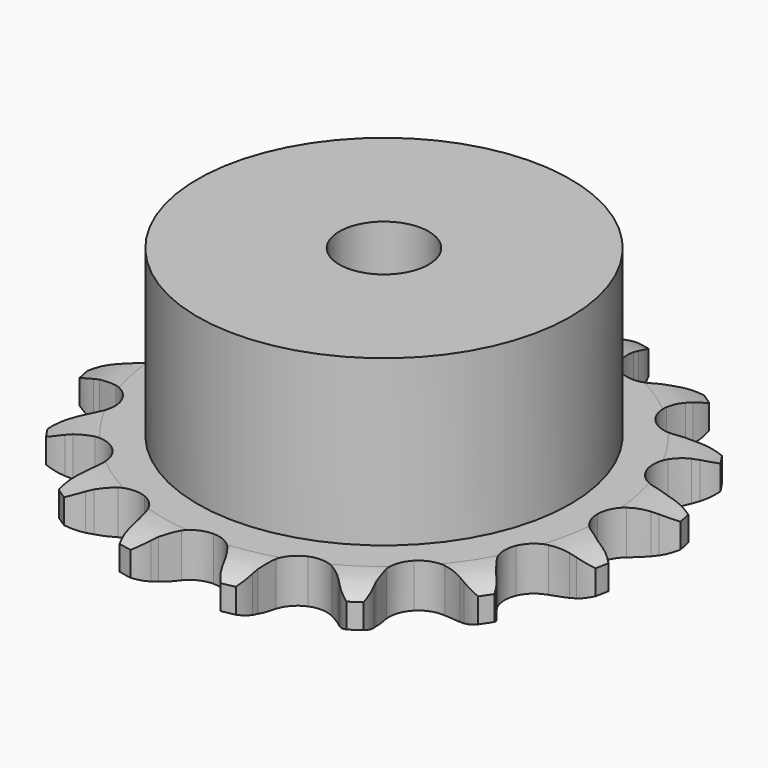
from build123d import *

# Parameters (mm, degrees)
PAD_DEPTH         = 5.9
SKETCH001_R       = 25
PAD001_DEPTH      = 28
SKETCH002_R       = 6
POCKET_DEPTH      = 0.001
POCKET_DEPTH_BACK = -28.001


with BuildPart() as part:
    # Sprocket → Pad (new body)
    with BuildSketch(Plane.XY):
        with BuildLine():
            ThreePointArc((-7.127283, 35.831271), (-5.749946, 34.624109), (-4.76799, 33.078129))
            Line((-4.76799, 33.078129), (-4.403122, 32.268153))
            ThreePointArc((-4.403122, 32.268153), (-3.804071, 31.135548), (-3.066876, 30.087598))
            ThreePointArc((-3.066876, 30.087598), (-1.700714, 29.003334), (0, 28.616551))
            ThreePointArc((0, 28.616551), (1.700714, 29.003334), (3.066876, 30.087598))
            ThreePointArc((3.066876, 30.087598), (3.804071, 31.135548), (4.403122, 32.268153))
            Line((4.403122, 32.268153), (4.76799, 33.078129))
            ThreePointArc((4.76799, 33.078129), (5.749946, 34.624109), (7.127283, 35.831271))
            ThreePointArc((7.127283, 35.831271), (7.937815, 34.188915), (8.253404, 32.384837))
            Line((8.253404, 32.384837), (8.280533, 31.496888))
            ThreePointArc((8.280533, 31.496888), (8.400555, 30.221251), (8.680601, 28.970958))
            ThreePointArc((8.680601, 28.970958), (9.527841, 27.446422), (10.95108, 26.438246))
            ThreePointArc((10.95108, 26.438246), (12.67035, 26.144752), (14.347449, 26.623673))
            Line((14.347449, 26.623673), (16.416442, 28.126884))
            ThreePointArc((16.416442, 28.126884), (16.733297, 28.438325), (17.0635, 28.735575))
            ThreePointArc((17.0635, 28.735575), (18.562331, 29.788097), (20.296785, 30.376285))
            ThreePointArc((20.296785, 30.376285), (20.417116, 28.548769), (20.018291, 26.761247))
            Line((20.018291, 26.761247), (19.703552, 25.930508))
            ThreePointArc((19.703552, 25.930508), (19.326273, 24.706042), (19.106535, 23.443753))
            ThreePointArc((19.106535, 23.443753), (19.305868, 21.71104), (20.234957, 20.234957))
            ThreePointArc((20.234957, 20.234957), (21.71104, 19.305868), (23.443753, 19.106535))
            Line((23.443753, 19.106535), (25.930508, 19.703552))
            ThreePointArc((25.930508, 19.703552), (26.342426, 19.870031), (26.761247, 20.018291))
            ThreePointArc((26.761247, 20.018291), (28.548769, 20.417116), (30.376285, 20.296785))
            ThreePointArc((30.376285, 20.296785), (29.788097, 18.562331), (28.735575, 17.0635))
            Line((28.735575, 17.0635), (28.126884, 16.416442))
            ThreePointArc((28.126884, 16.416442), (27.309741, 15.429562), (26.623673, 14.347449))
            ThreePointArc((26.623673, 14.347449), (26.144752, 12.67035), (26.438246, 10.95108))
            ThreePointArc((26.438246, 10.95108), (27.446422, 9.527841), (28.970958, 8.680601))
            Line((28.970958, 8.680601), (31.496888, 8.280533))
            ThreePointArc((31.496888, 8.280533), (31.94116, 8.276704), (32.384837, 8.253404))
            ThreePointArc((32.384837, 8.253404), (34.188915, 7.937815), (35.831271, 7.127283))
            ThreePointArc((35.831271, 7.127283), (34.624109, 5.749946), (33.078129, 4.76799))
            Line((33.078129, 4.76799), (32.268153, 4.403122))
            ThreePointArc((32.268153, 4.403122), (31.135548, 3.804071), (30.087598, 3.066876))
            ThreePointArc((30.087598, 3.066876), (29.003334, 1.700714), (28.616551, 0))
            ThreePointArc((28.616551, 0), (29.003334, -1.700714), (30.087598, -3.066876))
            Line((30.087598, -3.066876), (32.268153, -4.403122))
            ThreePointArc((32.268153, -4.403122), (32.677142, -4.576675), (33.078129, -4.76799))
            ThreePointArc((33.078129, -4.76799), (34.624109, -5.749946), (35.831271, -7.127283))
            ThreePointArc((35.831271, -7.127283), (34.188915, -7.937815), (32.384837, -8.253404))
            Line((32.384837, -8.253404), (31.496888, -8.280533))
            ThreePointArc((31.496888, -8.280533), (30.221251, -8.400555), (28.970958, -8.680601))
            ThreePointArc((28.970958, -8.680601), (27.446422, -9.527841), (26.438246, -10.95108))
            ThreePointArc((26.438246, -10.95108), (26.144752, -12.67035), (26.623673, -14.347449))
            Line((26.623673, -14.347449), (28.126884, -16.416442))
            ThreePointArc((28.126884, -16.416442), (28.438325, -16.733297), (28.735575, -17.0635))
            ThreePointArc((28.735575, -17.0635), (29.788097, -18.562331), (30.376285, -20.296785))
            ThreePointArc((30.376285, -20.296785), (28.548769, -20.417116), (26.761247, -20.018291))
            Line((26.761247, -20.018291), (25.930508, -19.703552))
            ThreePointArc((25.930508, -19.703552), (24.706042, -19.326273), (23.443753, -19.106535))
            ThreePointArc((23.443753, -19.106535), (21.71104, -19.305868), (20.234957, -20.234957))
            ThreePointArc((20.234957, -20.234957), (19.305868, -21.71104), (19.106535, -23.443753))
            Line((19.106535, -23.443753), (19.703552, -25.930508))
            ThreePointArc((19.703552, -25.930508), (19.870031, -26.342426), (20.018291, -26.761247))
            ThreePointArc((20.018291, -26.761247), (20.417116, -28.548769), (20.296785, -30.376285))
            ThreePointArc((20.296785, -30.376285), (18.562331, -29.788097), (17.0635, -28.735575))
            Line((17.0635, -28.735575), (16.416442, -28.126884))
            ThreePointArc((16.416442, -28.126884), (15.429562, -27.309741), (14.347449, -26.623673))
            ThreePointArc((14.347449, -26.623673), (12.67035, -26.144752), (10.95108, -26.438246))
            ThreePointArc((10.95108, -26.438246), (9.527841, -27.446422), (8.680601, -28.970958))
            Line((8.680601, -28.970958), (8.280533, -31.496888))
            ThreePointArc((8.280533, -31.496888), (8.276704, -31.94116), (8.253404, -32.384837))
            ThreePointArc((8.253404, -32.384837), (7.937815, -34.188915), (7.127283, -35.831271))
            ThreePointArc((7.127283, -35.831271), (5.749946, -34.624109), (4.76799, -33.078129))
            Line((4.76799, -33.078129), (4.403122, -32.268153))
            ThreePointArc((4.403122, -32.268153), (3.804071, -31.135548), (3.066876, -30.087598))
            ThreePointArc((3.066876, -30.087598), (1.700714, -29.003334), (0, -28.616551))
            ThreePointArc((0, -28.616551), (-1.700714, -29.003334), (-3.066876, -30.087598))
            Line((-3.066876, -30.087598), (-4.403122, -32.268153))
            ThreePointArc((-4.403122, -32.268153), (-4.576675, -32.677142), (-4.76799, -33.078129))
            ThreePointArc((-4.76799, -33.078129), (-5.749946, -34.624109), (-7.127283, -35.831271))
            ThreePointArc((-7.127283, -35.831271), (-7.937815, -34.188915), (-8.253404, -32.384837))
            Line((-8.253404, -32.384837), (-8.280533, -31.496888))
            ThreePointArc((-8.280533, -31.496888), (-8.400555, -30.221251), (-8.680601, -28.970958))
            ThreePointArc((-8.680601, -28.970958), (-9.527841, -27.446422), (-10.95108, -26.438246))
            ThreePointArc((-10.95108, -26.438246), (-12.67035, -26.144752), (-14.347449, -26.623673))
            Line((-14.347449, -26.623673), (-16.416442, -28.126884))
            ThreePointArc((-16.416442, -28.126884), (-16.733297, -28.438325), (-17.0635, -28.735575))
            ThreePointArc((-17.0635, -28.735575), (-18.562331, -29.788097), (-20.296785, -30.376285))
            ThreePointArc((-20.296785, -30.376285), (-20.417116, -28.548769), (-20.018291, -26.761247))
            Line((-20.018291, -26.761247), (-19.703552, -25.930508))
            ThreePointArc((-19.703552, -25.930508), (-19.326273, -24.706042), (-19.106535, -23.443753))
            ThreePointArc((-19.106535, -23.443753), (-19.305868, -21.71104), (-20.234957, -20.234957))
            ThreePointArc((-20.234957, -20.234957), (-21.71104, -19.305868), (-23.443753, -19.106535))
            Line((-23.443753, -19.106535), (-25.930508, -19.703552))
            ThreePointArc((-25.930508, -19.703552), (-26.342426, -19.870031), (-26.761247, -20.018291))
            ThreePointArc((-26.761247, -20.018291), (-28.548769, -20.417116), (-30.376285, -20.296785))
            ThreePointArc((-30.376285, -20.296785), (-29.788097, -18.562331), (-28.735575, -17.0635))
            Line((-28.735575, -17.0635), (-28.126884, -16.416442))
            ThreePointArc((-28.126884, -16.416442), (-27.309741, -15.429562), (-26.623673, -14.347449))
            ThreePointArc((-26.623673, -14.347449), (-26.144752, -12.67035), (-26.438246, -10.95108))
            ThreePointArc((-26.438246, -10.95108), (-27.446422, -9.527841), (-28.970958, -8.680601))
            Line((-28.970958, -8.680601), (-31.496888, -8.280533))
            ThreePointArc((-31.496888, -8.280533), (-31.94116, -8.276704), (-32.384837, -8.253404))
            ThreePointArc((-32.384837, -8.253404), (-34.188915, -7.937815), (-35.831271, -7.127283))
            ThreePointArc((-35.831271, -7.127283), (-34.624109, -5.749946), (-33.078129, -4.76799))
            Line((-33.078129, -4.76799), (-32.268153, -4.403122))
            ThreePointArc((-32.268153, -4.403122), (-31.135548, -3.804071), (-30.087598, -3.066876))
            ThreePointArc((-30.087598, -3.066876), (-29.003334, -1.700714), (-28.616551, 0))
            ThreePointArc((-28.616551, 0), (-29.003334, 1.700714), (-30.087598, 3.066876))
            Line((-30.087598, 3.066876), (-32.268153, 4.403122))
            ThreePointArc((-32.268153, 4.403122), (-32.677142, 4.576675), (-33.078129, 4.76799))
            ThreePointArc((-33.078129, 4.76799), (-34.624109, 5.749946), (-35.831271, 7.127283))
            ThreePointArc((-35.831271, 7.127283), (-34.188915, 7.937815), (-32.384837, 8.253404))
            Line((-32.384837, 8.253404), (-31.496888, 8.280533))
            ThreePointArc((-31.496888, 8.280533), (-30.221251, 8.400555), (-28.970958, 8.680601))
            ThreePointArc((-28.970958, 8.680601), (-27.446422, 9.527841), (-26.438246, 10.95108))
            ThreePointArc((-26.438246, 10.95108), (-26.144752, 12.67035), (-26.623673, 14.347449))
            Line((-26.623673, 14.347449), (-28.126884, 16.416442))
            ThreePointArc((-28.126884, 16.416442), (-28.438325, 16.733297), (-28.735575, 17.0635))
            ThreePointArc((-28.735575, 17.0635), (-29.788097, 18.562331), (-30.376285, 20.296785))
            ThreePointArc((-30.376285, 20.296785), (-28.548769, 20.417116), (-26.761247, 20.018291))
            Line((-26.761247, 20.018291), (-25.930508, 19.703552))
            ThreePointArc((-25.930508, 19.703552), (-24.706042, 19.326273), (-23.443753, 19.106535))
            ThreePointArc((-23.443753, 19.106535), (-21.71104, 19.305868), (-20.234957, 20.234957))
            ThreePointArc((-20.234957, 20.234957), (-19.305868, 21.71104), (-19.106535, 23.443753))
            Line((-19.106535, 23.443753), (-19.703552, 25.930508))
            ThreePointArc((-19.703552, 25.930508), (-19.870031, 26.342426), (-20.018291, 26.761247))
            ThreePointArc((-20.018291, 26.761247), (-20.417116, 28.548769), (-20.296785, 30.376285))
            ThreePointArc((-20.296785, 30.376285), (-18.562331, 29.788097), (-17.0635, 28.735575))
            Line((-17.0635, 28.735575), (-16.416442, 28.126884))
            ThreePointArc((-16.416442, 28.126884), (-15.429562, 27.309741), (-14.347449, 26.623673))
            ThreePointArc((-14.347449, 26.623673), (-12.67035, 26.144752), (-10.95108, 26.438246))
            ThreePointArc((-10.95108, 26.438246), (-9.527841, 27.446422), (-8.680601, 28.970958))
            Line((-8.680601, 28.970958), (-8.280533, 31.496888))
            ThreePointArc((-8.280533, 31.496888), (-8.276704, 31.94116), (-8.253404, 32.384837))
            ThreePointArc((-8.253404, 32.384837), (-7.937815, 34.188915), (-7.127283, 35.831271))
        make_face()
    extrude(amount=PAD_DEPTH)

    # Sketch → Groove (revolve, cut)
    with BuildSketch(Plane.XZ):
        with BuildLine():
            Line((29.783431, 0), (35.45, 0))
            Line((41.116569, 0), (35.45, 0))
            Line((41.116569, 5.9), (41.116569, 0))
            Line((35.45, 5.9), (41.116569, 5.9))
            Line((29.783431, 5.9), (35.45, 5.9))
            ThreePointArc((35.45, 4.6), (32.69032, 5.570833), (29.783431, 5.9))
            Line((35.45, 1.3), (35.45, 4.6))
            ThreePointArc((29.783431, 0), (32.69032, 0.329167), (35.45, 1.3))
        make_face()
    revolve(axis=Axis((0, 0, 0), (0, 0, 1)), mode=Mode.SUBTRACT)

    # Sketch001 → Pad001 (join)
    with BuildSketch(Plane.XY):
        Circle(SKETCH001_R)
    extrude(amount=PAD001_DEPTH)

    # Sketch002 → Pocket (cut, two sides)
    with BuildSketch(Plane.XY) as pocket_sk:
        Circle(SKETCH002_R)
    extrude(amount=-POCKET_DEPTH, mode=Mode.SUBTRACT)
    extrude(pocket_sk.sketch, amount=-POCKET_DEPTH_BACK, mode=Mode.SUBTRACT)


solid = part.part
